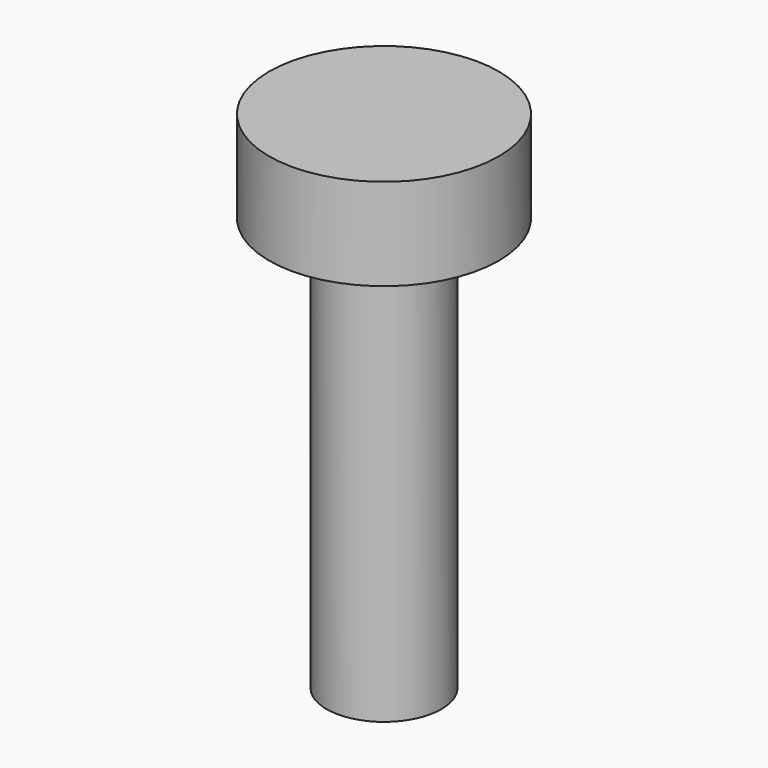
from build123d import *


with BuildPart() as part:
    # Sketch → Revolution (revolve)
    with BuildSketch(Plane.XZ):
        Polygon((0, 0), (5, 0), (5, -4), (2.5, -4), (2.5, -22), (0, -22), align=None)
    revolve(axis=Axis((0, 0, 0), (0, 0, 1)))


solid = part.part
